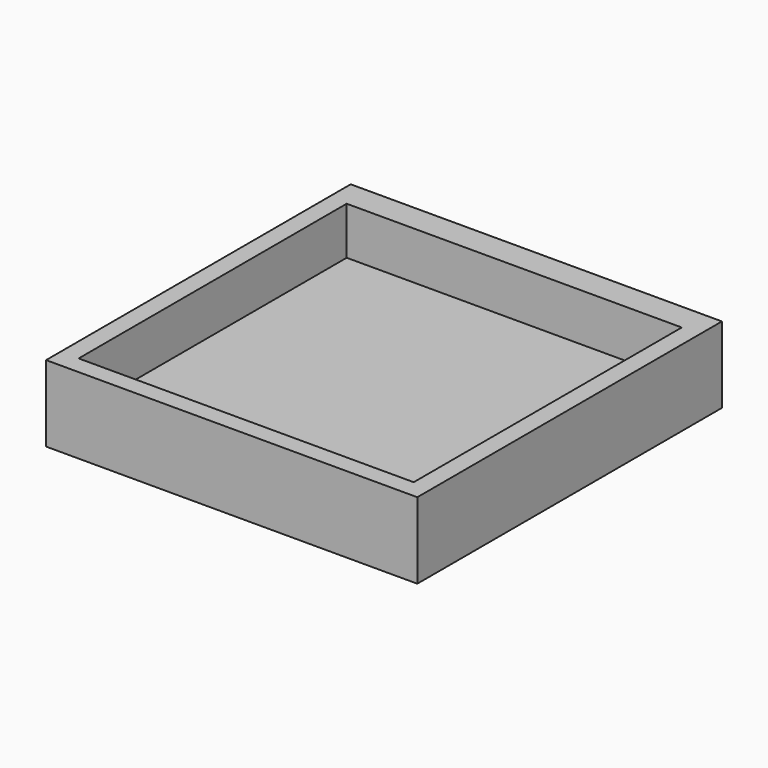
from build123d import *

# Parameters (mm, degrees)
SKETCH_W     = 39
SKETCH_H     = 40
PAD_DEPTH    = 8
SKETCH001_W  = 35.2
SKETCH001_H  = 35.2
POCKET_DEPTH = 5


with BuildPart() as part:
    # Sketch → Pad (new body)
    with BuildSketch(Plane.XY):
        Rectangle(SKETCH_W, SKETCH_H)
    extrude(amount=PAD_DEPTH)

    # Sketch001 (on Face6 of Pad) → Pocket (cut)
    with BuildSketch(Plane.XY.offset(8)):
        with Locations((0, -0.5)):
            Rectangle(SKETCH001_W, SKETCH001_H)
    extrude(amount=-POCKET_DEPTH, mode=Mode.SUBTRACT)


solid = part.part
